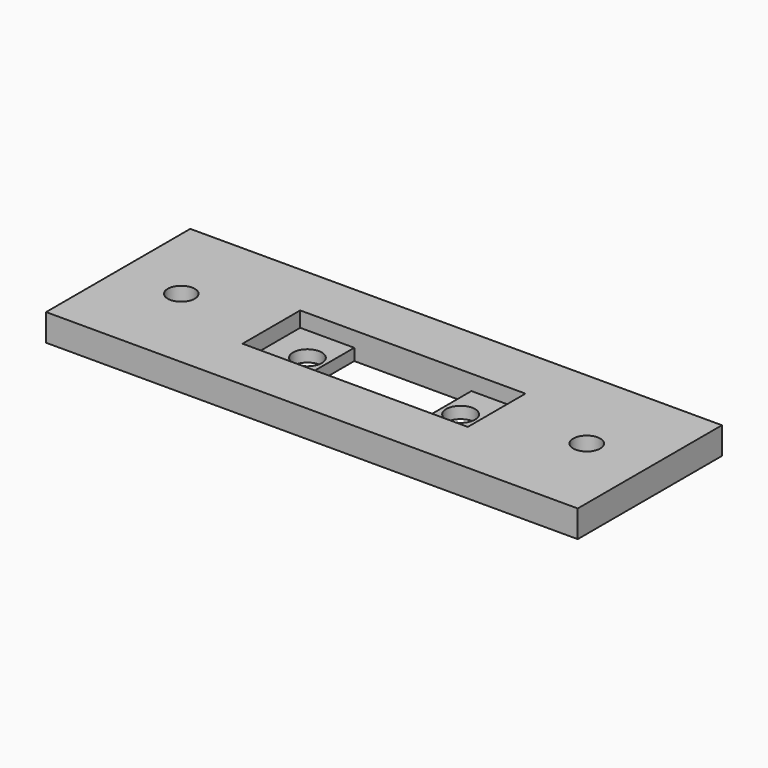
from build123d import *

# Parameters (mm, degrees)
SKETCH_W     = 59
SKETCH_H     = 20
SKETCH_R     = 1.5
SKETCH_R_2   = 1.6
SKETCH_W_2   = 13
SKETCH_H_2   = 8
PAD_DEPTH    = 3
SKETCH002_W  = 25
SKETCH002_H  = 8
POCKET_DEPTH = 1.7


with BuildPart() as part:
    # Sketch → Pad (new body)
    with BuildSketch(Plane.XY):
        Rectangle(SKETCH_W, SKETCH_H)
        with Locations((-22.5, 0)):
            Circle(SKETCH_R, mode=Mode.SUBTRACT)
        with Locations((-8.5, 0)):
            Circle(SKETCH_R_2, mode=Mode.SUBTRACT)
        with Locations((8.5, 0)):
            Circle(SKETCH_R_2, mode=Mode.SUBTRACT)
        with Locations((22.5, 0)):
            Circle(SKETCH_R, mode=Mode.SUBTRACT)
        Rectangle(SKETCH_W_2, SKETCH_H_2, mode=Mode.SUBTRACT)
    extrude(amount=PAD_DEPTH)

    # Sketch002 (on Face14 of Pad) → Pocket (cut)
    with BuildSketch(Plane.XY.offset(3)):
        Rectangle(SKETCH002_W, SKETCH002_H)
    extrude(amount=-POCKET_DEPTH, mode=Mode.SUBTRACT)


solid = part.part
